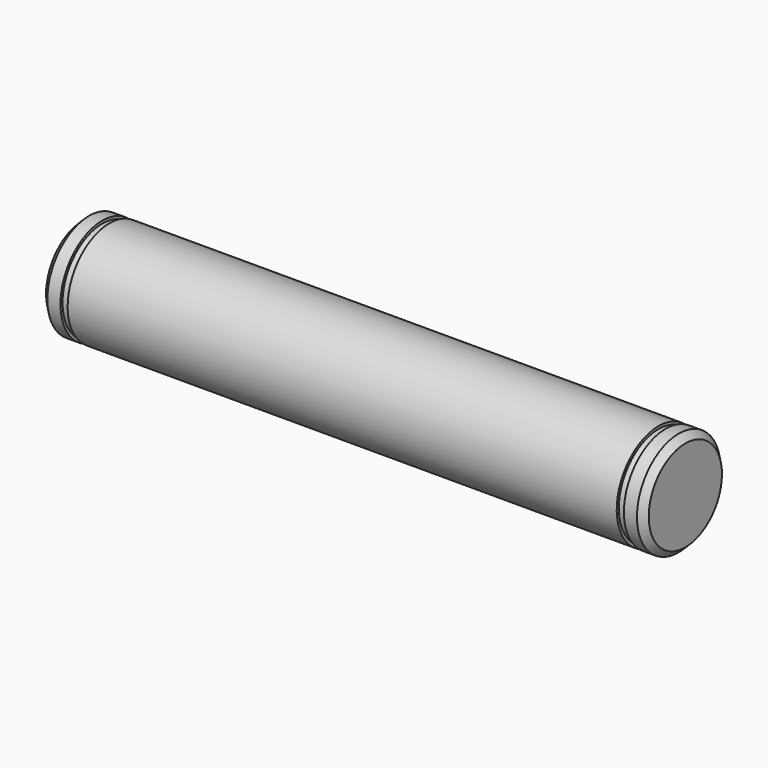
from build123d import *

# Parameters (mm, degrees)
F2_SIZE = 1


with BuildPart() as f1:
    # F0 (on Front) → F1 (revolve)
    with BuildSketch(Plane.XZ):
        Polygon((42, 8), (0, 8), (-42, 8), (-42, 7.6), (-43.1, 7.6), (-43.1, 8), (-46.1, 8), (-46.1, 0), (46.1, 0), (46.1, 8), (43.1, 8), (43.1, 7.6), (42, 7.6), align=None)
    revolve(axis=Axis((0, 0, 0), (1, 0, 0)))

    # F2
    f2_edges = [f1.edges().sort_by_distance(p)[0] for p in [
        (-46.1, 0, -8),
        (46.1, 0, -8),
    ]]
    chamfer(f2_edges, length=F2_SIZE)


solid = f1.part
